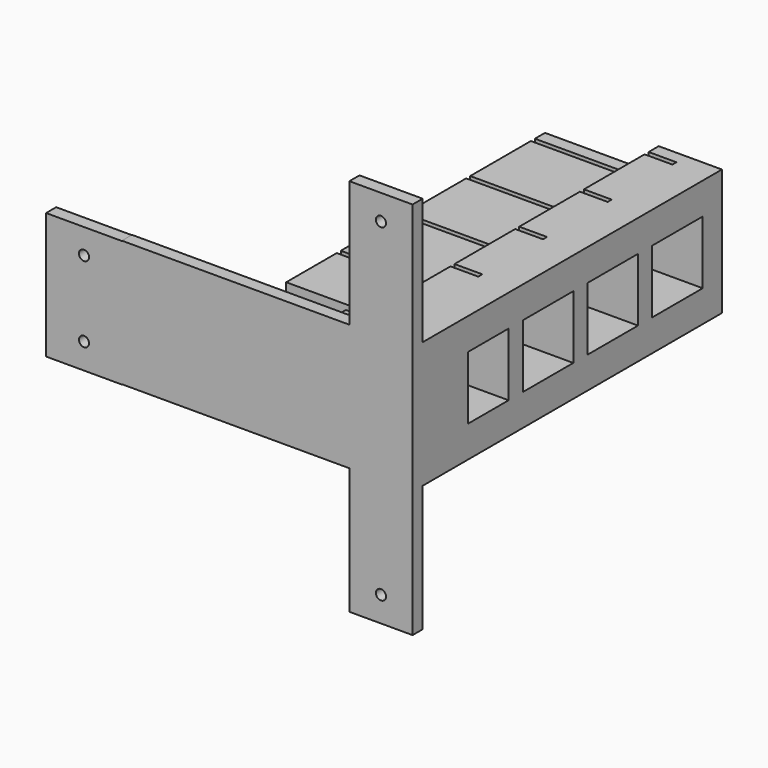
from build123d import *

# Parameters (mm, degrees)
PAD_DEPTH       = 30
SKETCH001_W     = 10
SKETCH001_H     = 150
PAD001_DEPTH    = 180
SKETCH002_W     = 25
SKETCH002_H     = 150
PAD002_DEPTH    = 153
SKETCH003_W     = 5
SKETCH003_H     = 3
SKETCH003_W_2   = 11
SKETCH003_H_2   = 2
POCKET_DEPTH    = 150
SKETCH006_W     = 153
SKETCH006_H     = 50
POCKET001_DEPTH = 35
SKETCH007_W     = 50
SKETCH007_H     = 50
SKETCH007_W_2   = 45
POCKET002_DEPTH = 35
SKETCH004_R     = 2
POCKET003_DEPTH = 10.001
SKETCH008_W     = 25
SKETCH008_H     = 25
SKETCH008_W_2   = 20
SKETCH008_W_3   = 5
SKETCH008_H_2   = 50
POCKET004_DEPTH = 150
SKETCH009_W     = 5
SKETCH009_H     = 150
POCKET005_DEPTH = 200
SKETCH010_W     = 20
SKETCH010_H     = 30
POCKET006_DEPTH = 5
SKETCH011_W     = 70
SKETCH011_H     = 30
POCKET007_DEPTH = 128
SKETCH012_W     = 65
SKETCH012_H     = 150
POCKET008_DEPTH = 5
SKETCH013_W     = 5
SKETCH013_H     = 50
POCKET009_DEPTH = 20
SKETCH014_W     = 20
SKETCH014_H     = 50
POCKET010_DEPTH = 5
SKETCH015_W     = 17
SKETCH015_H     = 30
POCKET011_DEPTH = 6
SKETCH016_W     = 5
SKETCH016_H     = 50
PAD003_DEPTH    = 30
SKETCH017_R     = 2
POCKET012_DEPTH = 5
SKETCH018_W     = 6
SKETCH018_H     = 17
POCKET013_DEPTH = 30


with BuildPart() as part:
    # Sketch → Pad (new body)
    with BuildSketch(Plane.XY):
        Polygon((-75, 0), (75, 0), (75, 163), (-65, 163), (-65, 153), (55, 153), (55, 151), (-65, 151), (-65, 121), (55, 121), (55, 119), (-65, 119), (-65, 89), (55, 89), (55, 87), (-65, 87), (-65, 57), (55, 57), (55, 55), (-65, 55), (-65, 30), (55, 30), (55, 27), (25, 27), (25, 10), (-75, 10), align=None)
    extrude(amount=PAD_DEPTH)

    # Sketch001 (on Face2 of Pad) → Pad001 (join)
    with BuildSketch(Plane.YZ.offset(75)):
        with Locations((5, 15)):
            Rectangle(SKETCH001_W, SKETCH001_H)
    extrude(amount=-PAD001_DEPTH)

    # Sketch002 (on Face10 of Pad001) → Pad002 (join)
    with BuildSketch(Plane(origin=(0, 10, 0), x_dir=(-1, 0, 0), z_dir=(0, 1, 0))):
        with Locations((-62.5, 15)):
            Rectangle(SKETCH002_W, SKETCH002_H)
    extrude(amount=PAD002_DEPTH)

    # Sketch003 (on Face14 of Pad002) → Pocket (cut)
    with BuildSketch(Plane.XY.offset(90)):
        with Locations((52.5, 28.5)):
            Rectangle(SKETCH003_W, SKETCH003_H)
        with Locations((55.5, 56)):
            Rectangle(SKETCH003_W_2, SKETCH003_H_2)
        with Locations((55.5, 88)):
            Rectangle(SKETCH003_W_2, SKETCH003_H_2)
        with Locations((55.5, 120)):
            Rectangle(SKETCH003_W_2, SKETCH003_H_2)
        with Locations((55.5, 152)):
            Rectangle(SKETCH003_W_2, SKETCH003_H_2)
    extrude(amount=-POCKET_DEPTH, mode=Mode.SUBTRACT)

    # Sketch006 → Pocket001 (cut)
    with BuildSketch(Plane(origin=(49, 0, 0), x_dir=(0, -1, 0), z_dir=(-1, 0, 0))):
        with Locations((-86.5, 65)):
            Rectangle(SKETCH006_W, SKETCH006_H)
        with Locations((-86.5, -35)):
            Rectangle(SKETCH006_W, SKETCH006_H)
    extrude(amount=-POCKET001_DEPTH, mode=Mode.SUBTRACT)

    # Sketch007 → Pocket002 (cut)
    with BuildSketch(Plane(origin=(0, 10, 0), x_dir=(-1, 0, 0), z_dir=(0, 1, 0))):
        with Locations((-5, 65)):
            Rectangle(SKETCH007_W, SKETCH007_H)
        with Locations((62.5, 65)):
            Rectangle(SKETCH007_W_2, SKETCH007_H)
        with Locations((-5, -35)):
            Rectangle(SKETCH007_W, SKETCH007_H)
        with Locations((62.5, -35)):
            Rectangle(SKETCH007_W_2, SKETCH007_H)
    extrude(amount=-POCKET002_DEPTH, mode=Mode.SUBTRACT)

    # Sketch004 (on Face13 of Pocket) → Pocket003 (cut, through all)
    with BuildSketch(Plane(origin=(0, 10, 0), x_dir=(-1, 0, 0), z_dir=(0, 1, 0))):
        with Locations((-62.5, 80)):
            Circle(SKETCH004_R)
        with Locations((30, 80)):
            Circle(SKETCH004_R)
        with Locations((95, 80)):
            Circle(SKETCH004_R)
        with Locations((-62.5, -50)):
            Circle(SKETCH004_R)
        with Locations((30, -50)):
            Circle(SKETCH004_R)
        with Locations((95, -50)):
            Circle(SKETCH004_R)
    extrude(amount=-POCKET003_DEPTH, mode=Mode.SUBTRACT)

    # Sketch008 (on Face100 of Pocket003) → Pocket004 (cut)
    with BuildSketch(Plane(origin=(-65, 0, 0), x_dir=(0, -1, 0), z_dir=(-1, 0, 0))):
        with Locations((-136, 15)):
            Rectangle(SKETCH008_W, SKETCH008_H)
        with Locations((-104, 15)):
            Rectangle(SKETCH008_W, SKETCH008_H)
        with Locations((-72, 15)):
            Rectangle(SKETCH008_W, SKETCH008_H)
        with Locations((-42.5, 15)):
            Rectangle(SKETCH008_W_2, SKETCH008_H)
        with Locations((-160.5, 15)):
            Rectangle(SKETCH008_W_3, SKETCH008_H_2)
    extrude(amount=-POCKET004_DEPTH, mode=Mode.SUBTRACT)

    # Sketch009 (on Face20 of Pocket004) → Pocket005 (cut)
    with BuildSketch(Plane(origin=(-105, 0, 0), x_dir=(0, -1, 0), z_dir=(-1, 0, 0))):
        with Locations((-2.5, 15)):
            Rectangle(SKETCH009_W, SKETCH009_H)
    extrude(amount=-POCKET005_DEPTH, mode=Mode.SUBTRACT)

    # Sketch010 (on Face66 of Pocket005) → Pocket006 (cut)
    with BuildSketch(Plane(origin=(0, 10, 0), x_dir=(-1, 0, 0), z_dir=(0, 1, 0))):
        with Locations((65, 15)):
            Rectangle(SKETCH010_W, SKETCH010_H)
    extrude(amount=-POCKET006_DEPTH, mode=Mode.SUBTRACT)

    # Sketch011 (on Face39 of Pocket006) → Pocket007 (cut)
    with BuildSketch(Plane(origin=(0, 158, 0), x_dir=(-1, 0, 0), z_dir=(0, 1, 0))):
        with Locations((30, 15)):
            Rectangle(SKETCH011_W, SKETCH011_H)
    extrude(amount=-POCKET007_DEPTH, mode=Mode.SUBTRACT)

    # Sketch012 (on Face56 of Pocket007) → Pocket008 (cut)
    with BuildSketch(Plane(origin=(0, 10, 0), x_dir=(-1, 0, 0), z_dir=(0, 1, 0))):
        with Locations((72.5, 15)):
            Rectangle(SKETCH012_W, SKETCH012_H)
    extrude(amount=-POCKET008_DEPTH, mode=Mode.SUBTRACT)

    # Sketch013 (on Face14 of Pocket008) → Pocket009 (cut)
    with BuildSketch(Plane(origin=(30, 0, 0), x_dir=(0, -1, 0), z_dir=(-1, 0, 0))):
        with Locations((-7.5, -35)):
            Rectangle(SKETCH013_W, SKETCH013_H)
        with Locations((-7.5, 65)):
            Rectangle(SKETCH013_W, SKETCH013_H)
    extrude(amount=-POCKET009_DEPTH, mode=Mode.SUBTRACT)

    # Sketch014 (on Face3 of Pocket009) → Pocket010 (cut)
    with BuildSketch(Plane.XZ.offset(-5)):
        with Locations((-30, -35)):
            Rectangle(SKETCH014_W, SKETCH014_H)
        with Locations((-30, 65)):
            Rectangle(SKETCH014_W, SKETCH014_H)
    extrude(amount=-POCKET010_DEPTH, mode=Mode.SUBTRACT)

    # Sketch015 (on Face79 of Pocket010) → Pocket011 (cut)
    with BuildSketch(Plane(origin=(50, 0, 0), x_dir=(0, -1, 0), z_dir=(-1, 0, 0))):
        with Locations((-18.5, 15)):
            Rectangle(SKETCH015_W, SKETCH015_H)
    extrude(amount=-POCKET011_DEPTH, mode=Mode.SUBTRACT)

    # Sketch016 (on Face18 of Pocket011) → Pad003 (join)
    with BuildSketch(Plane(origin=(-40, 0, 0), x_dir=(0, -1, 0), z_dir=(-1, 0, 0))):
        with Locations((-7.5, 14.879722)):
            Rectangle(SKETCH016_W, SKETCH016_H)
    extrude(amount=PAD003_DEPTH)

    # Sketch017 (on Face78 of Pad003) → Pocket012 (cut)
    with BuildSketch(Plane(origin=(0, 10, 0), x_dir=(-1, 0, 0), z_dir=(0, 1, 0))):
        with Locations((55, 30)):
            Circle(SKETCH017_R)
        with Locations((55, 0)):
            Circle(SKETCH017_R)
    extrude(amount=-POCKET012_DEPTH, mode=Mode.SUBTRACT)

    # Sketch018 (on Face84 of Pocket012) → Pocket013 (cut)
    with BuildSketch(Plane.XY.offset(30)):
        with Locations((28, 18.5)):
            Rectangle(SKETCH018_W, SKETCH018_H)
    extrude(amount=-POCKET013_DEPTH, mode=Mode.SUBTRACT)


solid = part.part
